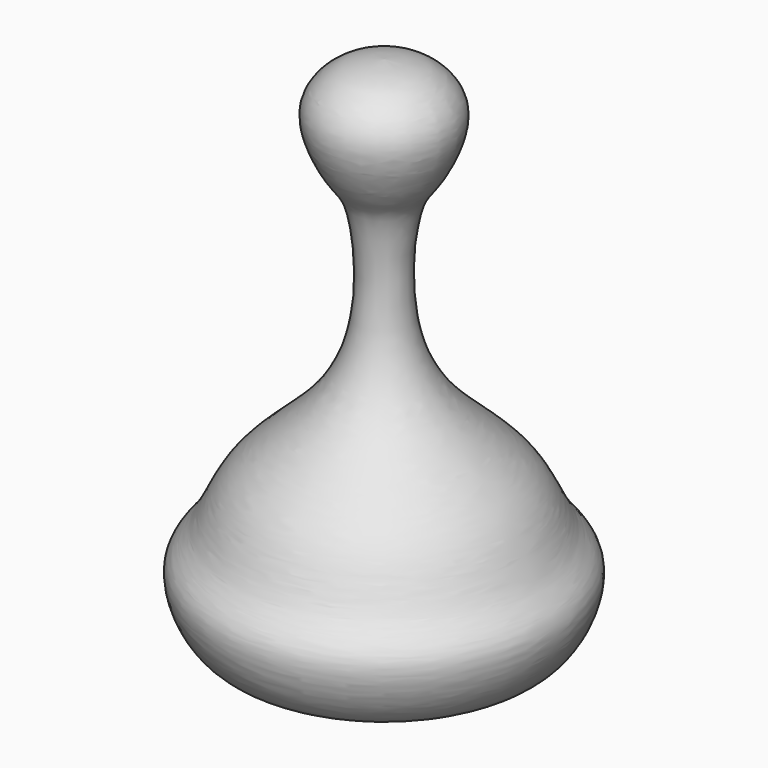
from build123d import *


with BuildPart() as f1:
    # F0 (on Front) → F1 (revolve)
    with BuildSketch(Plane.XZ):
        with BuildLine():
            add(Edge.make_bspline(
                [(0, 45.5852635205), (2.5568827372, 45.3886262088), (7.7226720534, 44.9913506868), (14.2733078527, 38.6009414788), (12.8172107765, 30.7010619434), (9.0224266066, 23.8379505049), (5.2699852026, 20.1485557569), (3.5341504152, -1.2891404544), (11.4541112208, -16.4997559714), (26.4876679011, -27.2095845086), (30.1675013358, -38.8610136927), (36.8707883453, -44.0985940827), (30.9214388566, -59.4195178618), (18.6579357055, -59.1190327269), (5.5858524134, -58.2889719725), (1.5631706323, -58.3676641217), (0, -58.3982430398)],
                knots=[0, 0, 0, 0, 0.0611452782, 0.1235346543, 0.1841931473, 0.244694936, 0.2943764419, 0.392954678, 0.4857606847, 0.5790573895, 0.6542198919, 0.7139526468, 0.7935046645, 0.8684423031, 0.9488781019, 1, 1, 1, 1], degree=3))
            Line((0, 45.5852635205), (0, -58.3982430398))
        make_face()
    revolve(axis=Axis((0, 0, -0.3633461893), (0, 0, -1)))


solid = f1.part
